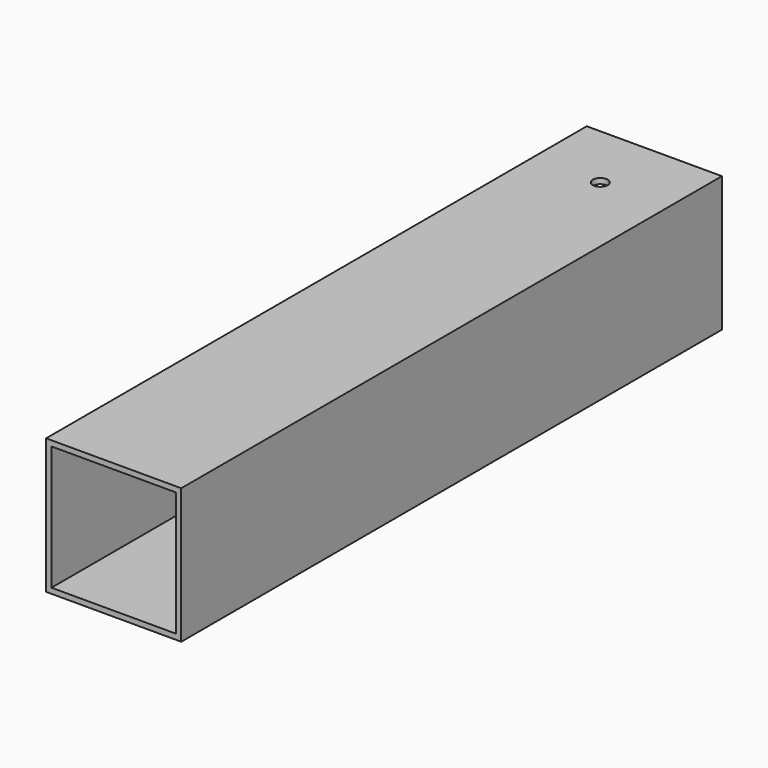
from build123d import *

# Parameters (mm, degrees)
F0_W     = 100
F0_H     = 100
F0_W_2   = 92
F0_H_2   = 92
F1_DEPTH = 500
F2_R     = 5.5
F3_DEPTH = 100.001


with BuildPart() as f1:
    # F0 (on Front) → F1 (new body)
    with BuildSketch(Plane.XZ):
        with Locations((50, 50)):
            Rectangle(F0_W, F0_H)
        with Locations((50, 50)):
            Rectangle(F0_W_2, F0_H_2, mode=Mode.SUBTRACT)
    extrude(amount=F1_DEPTH)

    # F2 (on face) → F3 (cut, through all)
    with BuildSketch(Plane.XY.offset(100)):
        with Locations((50, -50)):
            Circle(F2_R)
    extrude(amount=-F3_DEPTH, mode=Mode.SUBTRACT)


solid = f1.part
